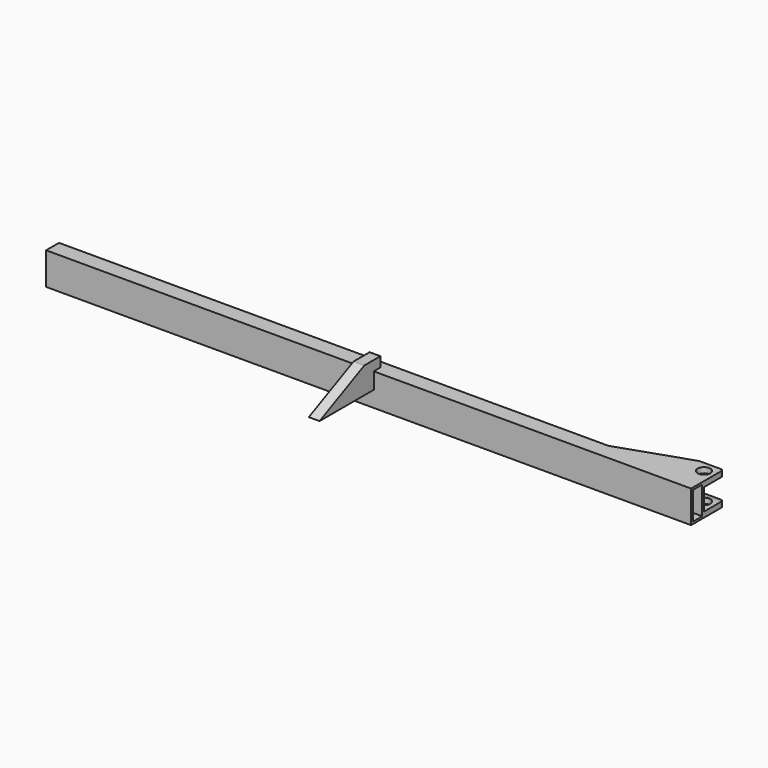
from build123d import *

# Parameters (mm, degrees)
F0_W     = 38.1
F0_H     = 76.2
F1_DEPTH = 762
F2_T     = -5.08
F3_R     = 15.088451
F4_DEPTH = 76.2
F6_DEPTH = 1524.001
F8_DEPTH = 12.7


with BuildPart() as f1:
    # F0 (on Right) → F1 (new body, symmetric)
    with BuildSketch(Plane.YZ):
        Rectangle(F0_W, F0_H)
    extrude(amount=F1_DEPTH, both=True)

    # F2
    f2_openings = [f1.faces().sort_by_distance(p)[0] for p in [
        (-762, 0, 0),
        (762, 0, 0),
    ]]
    offset(amount=F2_T, openings=f2_openings)

    # F3 (on face) → F4 (join)
    with BuildSketch(Plane.XY.offset(38.1)):
        with BuildLine():
            Line((536.485165, 19.05), (762, 19.05))
            Line((762, 19.05), (762, 69.85))
            ThreePointArc((762, 69.85), (760.140128, 74.340128), (755.65, 76.2))
            Line((755.65, 76.2), (704.85, 76.2))
            Line((704.85, 76.2), (536.485165, 19.05))
        make_face()
        with Locations((736.6, 50.8)):
            Circle(F3_R, mode=Mode.SUBTRACT)
    extrude(amount=-F4_DEPTH)

    # F5 (on face) → F6 (cut, through all)
    with BuildSketch(Plane.YZ.offset(762)):
        Polygon((77.082947, 25.4), (69.85, 25.4), (19.05, 25.4), (19.05, -25.4), (69.85, -25.4), (77.082947, -25.411841), align=None)
    extrude(amount=-F6_DEPTH, mode=Mode.SUBTRACT)


with BuildPart() as f8:
    # F7 (on Right) → F8 (new body, symmetric)
    with BuildSketch(Plane.YZ):
        Polygon((-19.053811, 38.700264), (0, 38.700264), (0, 62.031277), (-47.531884, 62.031277), (-179.655552, 0), (-19.053811, 0), align=None)
    extrude(amount=F8_DEPTH, both=True)


solid = Compound([f1.part, f8.part])
